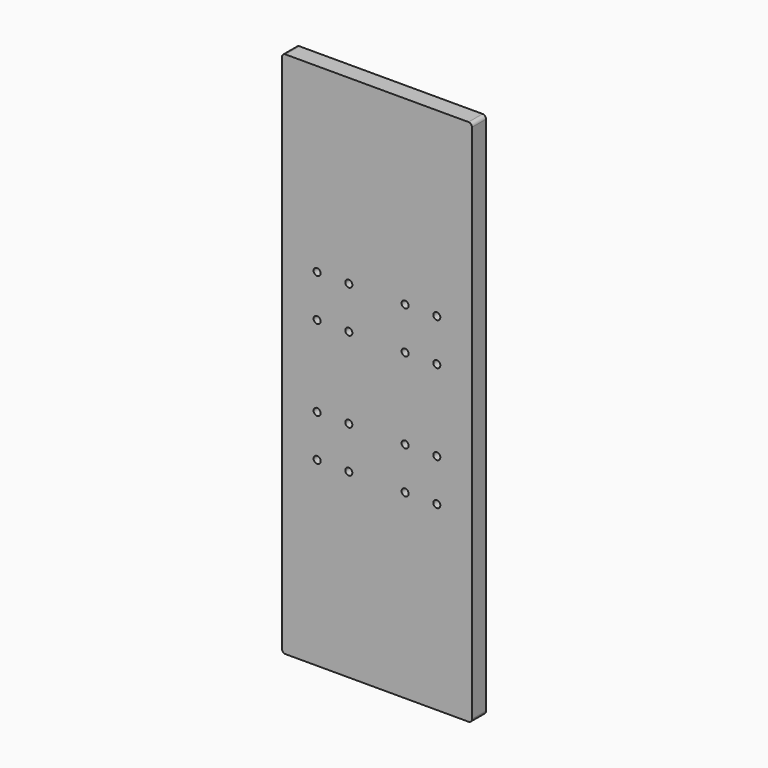
from build123d import *

# Parameters (mm, degrees)
F1_DEPTH = 10
F3_D     = 4


with BuildPart() as f1:
    # F0 (on Front) → F1 (new body)
    with BuildSketch(Plane.XZ):
        with BuildLine():
            Line((7.478453, 309.091821), (-96.521547, 309.091821))
            ThreePointArc((-96.521547, 309.091821), (-97.93576, 308.506034), (-98.521547, 307.091821))
            Line((-98.521547, 307.091821), (-98.521547, 11.091821))
            ThreePointArc((-98.521547, 11.091821), (-97.93576, 9.677607), (-96.521547, 9.091821))
            Line((-96.521547, 9.091821), (7.478453, 9.091821))
            ThreePointArc((7.478453, 9.091821), (8.892667, 9.677607), (9.478453, 11.091821))
            Line((9.478453, 11.091821), (9.478453, 307.091821))
            ThreePointArc((9.478453, 307.091821), (8.892667, 308.506034), (7.478453, 309.091821))
        make_face()
    extrude(amount=F1_DEPTH)

    # F3 (through all)
    with Locations(Plane.XZ.offset(10)):
        with Locations((-78.521547, 206.091821), (-60.521547, 206.091821), (-60.521547, 182.091821), (-78.521547, 182.091821), (-28.521547, 206.091821), (-10.521547, 206.091821), (-10.521547, 182.091821), (-28.521547, 182.091821), (-10.521547, 136.091821), (-10.521547, 112.091821), (-28.521547, 112.091821), (-28.521547, 136.091821), (-60.521547, 136.091821), (-60.521547, 112.091821), (-78.521547, 112.091821), (-78.521547, 136.091821)):
            Hole(F3_D / 2)


solid = f1.part
